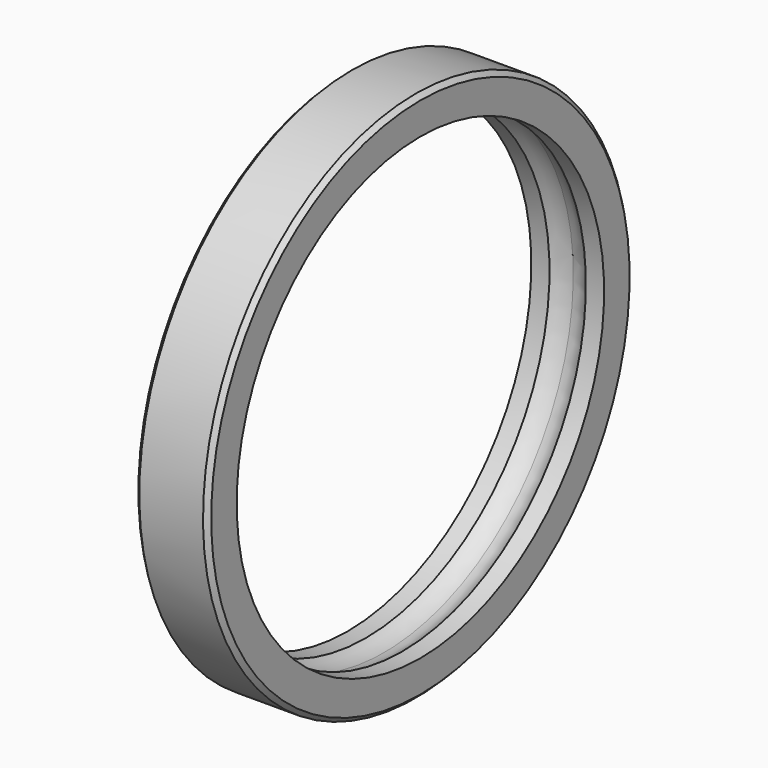
from build123d import *

# Parameters (mm, degrees)
F2_SIZE = 0.25


with BuildPart() as f1:
    # F0 (on Front) → F1 (revolve)
    with BuildSketch(Plane.XZ):
        with BuildLine():
            ThreePointArc((0, 13), (0.535233, 12.901259), (1, 12.618034))
            Line((1, 12.618034), (2, 12.618034))
            Line((2, 12.618034), (2, 14.618034))
            Line((2, 14.618034), (0, 14.618034))
            Line((0, 14.618034), (0, 13))
        make_face()
        with BuildLine():
            ThreePointArc((-1, 12.618034), (-0.535233, 12.901259), (0, 13))
            Line((0, 13), (0, 14.618034))
            Line((0, 14.618034), (-2, 14.618034))
            Line((-2, 14.618034), (-2, 12.618034))
            Line((-2, 12.618034), (-1, 12.618034))
        make_face()
    revolve(axis=Axis((0.408548, 0, 0), (1, 0, 0)))

    # F2
    f2_edges = [f1.edges().sort_by_distance(p)[0] for p in [
        (2, 0, -14.618034),
        (-2, 0, -14.618034),
    ]]
    chamfer(f2_edges, length=F2_SIZE)


solid = f1.part
